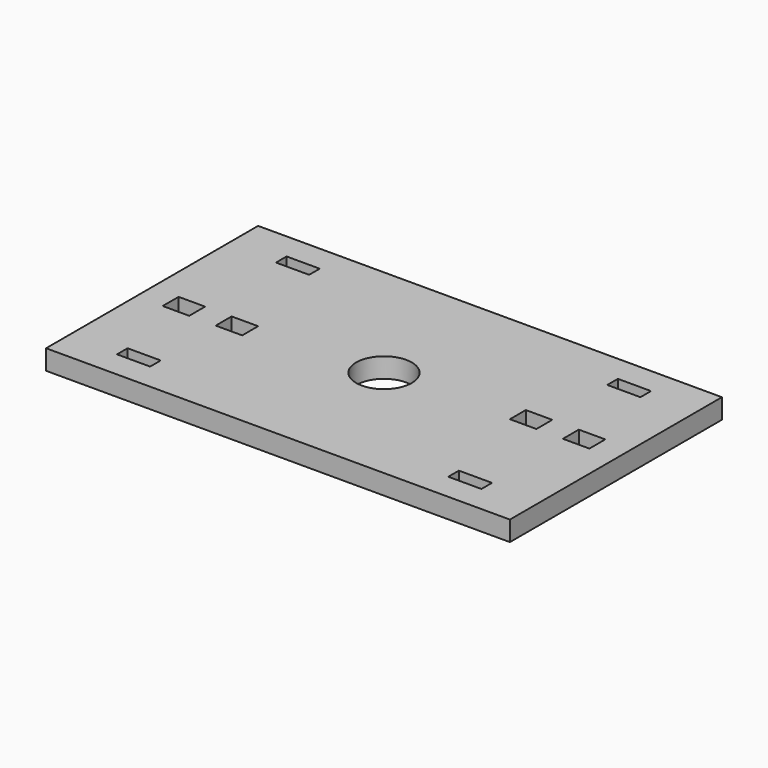
from build123d import *

# Parameters (mm, degrees)
SKETCH_W   = 70
SKETCH_H   = 40
SKETCH_R   = 4.2
SKETCH_W_2 = 5
SKETCH_H_2 = 2
SKETCH_W_3 = 4
SKETCH_H_3 = 3
PAD_DEPTH  = 3


with BuildPart() as part:
    # Sketch → Pad (new body)
    with BuildSketch(Plane.XY):
        Rectangle(SKETCH_W, SKETCH_H)
        Circle(SKETCH_R, mode=Mode.SUBTRACT)
        with Locations((-25, 15)):
            Rectangle(SKETCH_W_2, SKETCH_H_2, mode=Mode.SUBTRACT)
        with Locations((25, 15)):
            Rectangle(SKETCH_W_2, SKETCH_H_2, mode=Mode.SUBTRACT)
        with Locations((25, -15)):
            Rectangle(SKETCH_W_2, SKETCH_H_2, mode=Mode.SUBTRACT)
        with Locations((-25, -15)):
            Rectangle(SKETCH_W_2, SKETCH_H_2, mode=Mode.SUBTRACT)
        with Locations((-29, -1.5)):
            Rectangle(SKETCH_W_3, SKETCH_H_3, mode=Mode.SUBTRACT)
        with Locations((-21, -1.5)):
            Rectangle(SKETCH_W_3, SKETCH_H_3, mode=Mode.SUBTRACT)
        with Locations((21, 1.5)):
            Rectangle(SKETCH_W_3, SKETCH_H_3, mode=Mode.SUBTRACT)
        with Locations((29, 1.5)):
            Rectangle(SKETCH_W_3, SKETCH_H_3, mode=Mode.SUBTRACT)
    extrude(amount=PAD_DEPTH)


solid = part.part
